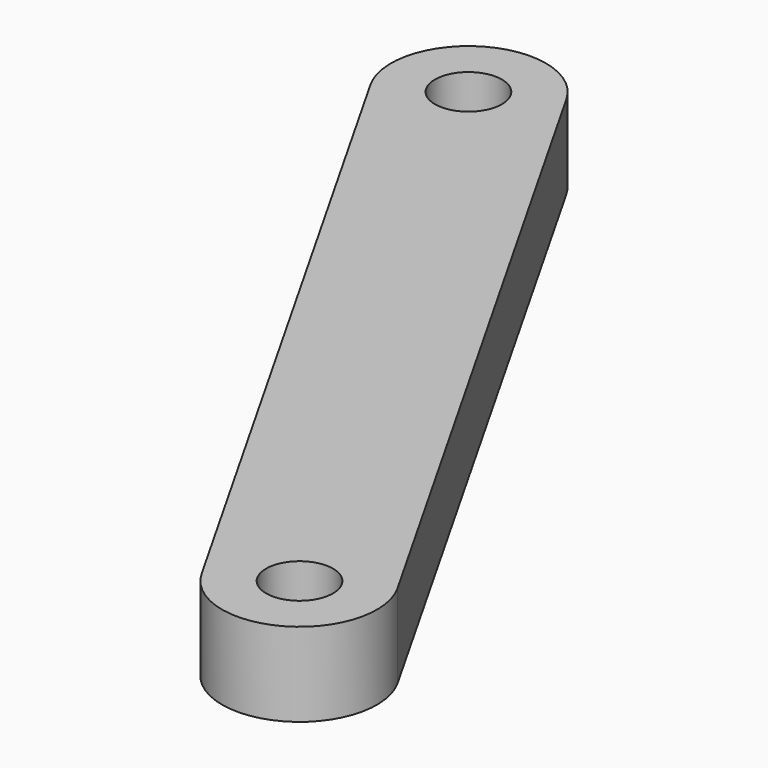
from build123d import *

# Parameters (mm, degrees)
CYLINDER005_R            = 1.6
CYLINDER005_DEPTH        = 30
PAD002_DEPTH             = 4
CLONE017_PLACEMENT_ANGLE = 60.399047773


with BuildPart() as finger_drill_master:
    # Cylinder005 → Cylinder005 (new body)
    with BuildSketch(Plane.XY.offset(-8)):
        Circle(CYLINDER005_R)
    extrude(amount=CYLINDER005_DEPTH)


with BuildPart() as clone006:
    # Clone006 base: copy of finger-drill-master
    add(finger_drill_master.part)


with BuildPart() as clone006_1:
    # Clone006 placement: moved
    add(clone006.part.moved(Location((40, 0, 0))))


with BuildPart() as fusion012:
    # Clone005 base: copy of finger-drill-master
    add(finger_drill_master.part)

    # Fusion012: union Clone006
    add(clone006_1.part)


with BuildPart() as clone_of_right_link:
    # Sketch002 → Pad002 (new body)
    with BuildSketch(Plane.XY):
        with BuildLine():
            ThreePointArc((0, 3.7), (-3.7, 0), (0, -3.7))
            Line((0, -3.7), (40, -3.7))
            ThreePointArc((40, -3.7), (43.7, 0), (40, 3.7))
            Line((0, 3.7), (40, 3.7))
        make_face()
    extrude(amount=PAD002_DEPTH)

    # Cut001: cut Fusion012
    add(fusion012.part, mode=Mode.SUBTRACT)


with BuildPart() as clone_of_right_link_1:
    # Clone017 placement: moved
    add(clone_of_right_link.part.moved(Location((216.2035278557, 248.9337248036, 4.3))).rotate(Axis((216.2035278557, 248.9337248036, 4.3), (0, 0, -1)), CLONE017_PLACEMENT_ANGLE))


with BuildPart() as clone_of_right_link_2:
    # Clone182 placement: moved
    add(clone_of_right_link_1.part.moved(Location((-14, -699, 7.3))))


solid = clone_of_right_link_2.part
